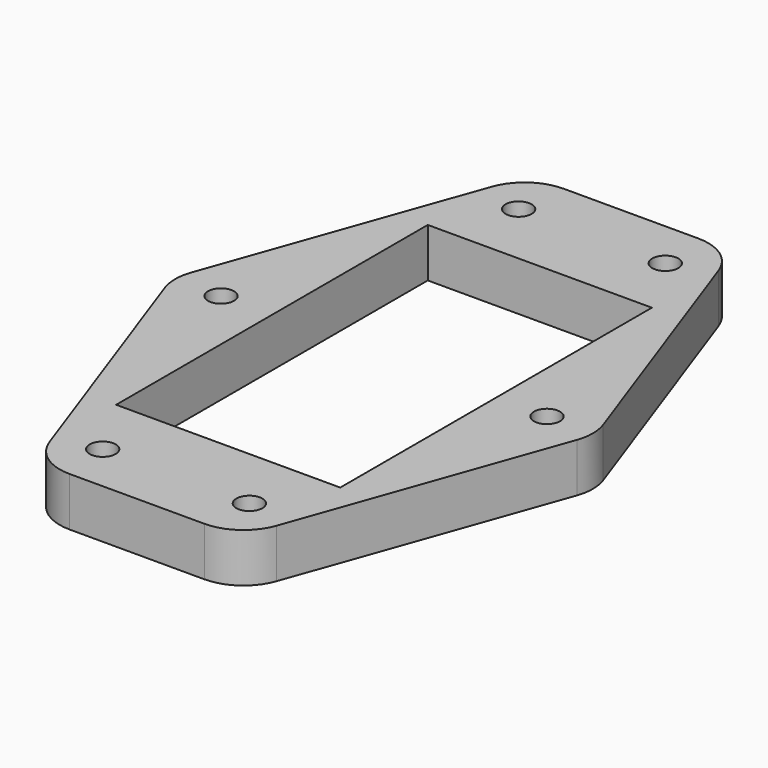
from build123d import *

# Parameters (mm, degrees)
SKETCH_R     = 1.6
SKETCH_W     = 27.5
SKETCH_H     = 47.8
PAD_DEPTH    = 6
POCKET_DEPTH = 2.5
FILLET_R     = 6


with BuildPart() as part:
    # Sketch (on Face1 of ShapeBinder) → Pad (new body)
    with BuildSketch(Plane.XY):
        Polygon((266.5, -110.55), (291.5, -110.55), (305, -148.45), (291.5, -186.35), (266.5, -186.35), (253, -148.45), align=None)
        with Locations((270, -116.55)):
            Circle(SKETCH_R, mode=Mode.SUBTRACT)
        with Locations((288, -116.55)):
            Circle(SKETCH_R, mode=Mode.SUBTRACT)
        with Locations((299, -148.45)):
            Circle(SKETCH_R, mode=Mode.SUBTRACT)
        with Locations((259, -148.45)):
            Circle(SKETCH_R, mode=Mode.SUBTRACT)
        with Locations((270, -180.35)):
            Circle(SKETCH_R, mode=Mode.SUBTRACT)
        with Locations((288, -180.35)):
            Circle(SKETCH_R, mode=Mode.SUBTRACT)
        with Locations((279, -148.45)):
            Rectangle(SKETCH_W, SKETCH_H, mode=Mode.SUBTRACT)
    extrude(amount=PAD_DEPTH)

    # Sketch001 (on Face17 of Pad) → Pocket (cut)
    with BuildSketch(Plane(origin=(0, 0, 0), x_dir=(1, 0, 0), z_dir=(0, 0, -1))):
        Polygon((261.8, 146.833419), (261.8, 150.066581), (259, 151.683162), (256.2, 150.066581), (256.2, 146.833419), (259, 145.216838), align=None)
        Polygon((301.8, 146.833419), (301.8, 150.066581), (299, 151.683162), (296.2, 150.066581), (296.2, 146.833419), (299, 145.216838), align=None)
    extrude(amount=-POCKET_DEPTH, mode=Mode.SUBTRACT)

    # Fillet
    fillet_edges = [part.edges().sort_by_distance(p)[0] for p in [
        (291.5, -110.55, 3),
        (266.5, -110.55, 3),
        (253, -148.45, 3),
        (266.5, -186.35, 3),
        (291.5, -186.35, 3),
        (305, -148.45, 3),
    ]]
    fillet(fillet_edges, radius=FILLET_R)


solid = part.part
